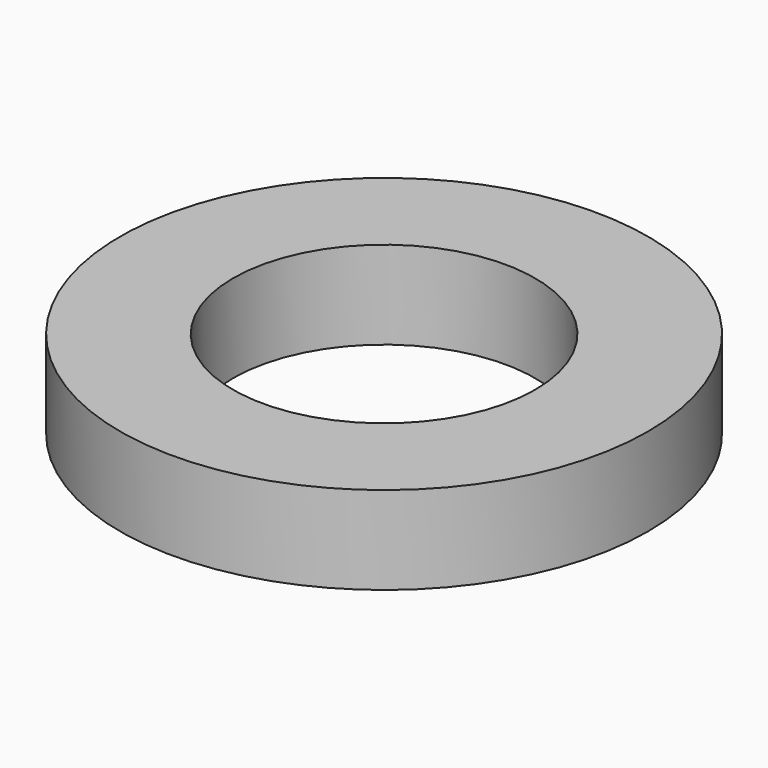
from build123d import *

# Parameters (mm, degrees)
SKETCH_R     = 9
PAD_DEPTH    = 3
SKETCH001_R  = 5.15
POCKET_DEPTH = 5


with BuildPart() as part:
    # Sketch → Pad (new body)
    with BuildSketch(Plane.XY):
        Circle(SKETCH_R)
    extrude(amount=PAD_DEPTH)

    # Sketch001 → Pocket (cut)
    with BuildSketch(Plane.XY.offset(3)):
        Circle(SKETCH001_R)
    extrude(amount=-POCKET_DEPTH, mode=Mode.SUBTRACT)


solid = part.part
